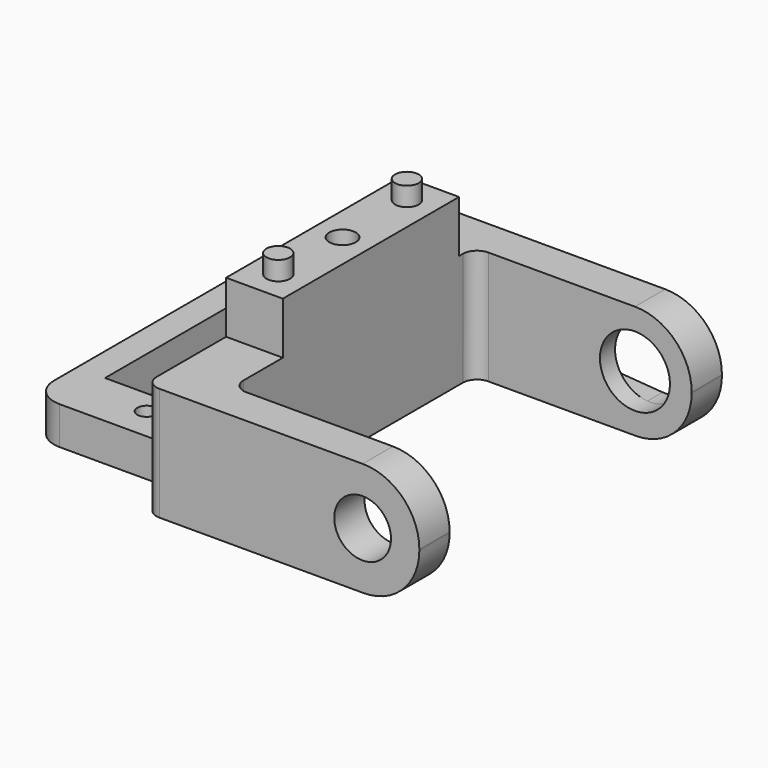
from build123d import *

# Parameters (mm, degrees)
PAD_DEPTH       = 12
SKETCH001_R     = 3
POCKET_DEPTH    = 5
SKETCH002_R     = 3.7
POCKET001_DEPTH = 5
POCKET002_DEPTH = 2
SKETCH004_R     = 1
SKETCH004_W     = 12.8
SKETCH004_H     = 23.3
PAD001_DEPTH    = 4
SKETCH005_W     = 6
SKETCH005_H     = 23.3
PAD002_DEPTH    = 13.5
SKETCH006_R     = 1.25
PAD003_DEPTH    = 2
SKETCH007_R     = 1.4
POCKET003_DEPTH = 11
FILLET_R        = 6
FILLET001_R     = 6
FILLET002_R     = 5.9
FILLET003_R     = 5.9


with BuildPart() as part:
    # Sketch → Pad (new body)
    with BuildSketch(Plane.XY):
        with BuildLine():
            Line((29, 20), (1.5, 20))
            ThreePointArc((1.5, 20), (0.43934, 19.56066), (0, 18.5))
            Line((0, 18.5), (0, -18.5))
            ThreePointArc((0, -18.5), (0.43934, -19.56066), (1.5, -20))
            Line((1.5, -20), (29, -20))
            Line((29, -20), (29, -16))
            Line((29, -16), (7.5, -16))
            ThreePointArc((6, -14.5), (6.43934, -15.56066), (7.5, -16))
            Line((6, -14.5), (6, 14.5))
            ThreePointArc((7.5, 16), (6.43934, 15.56066), (6, 14.5))
            Line((7.5, 16), (29, 16))
            Line((29, 16), (29, 20))
        make_face()
    extrude(amount=PAD_DEPTH)

    # Sketch001 (on Face7 of Pad) → Pocket (cut)
    with BuildSketch(Plane.XZ.offset(20)):
        with Locations((23, 6)):
            Circle(SKETCH001_R)
    extrude(amount=-POCKET_DEPTH, mode=Mode.SUBTRACT)

    # Sketch002 (on Face7 of Pocket) → Pocket001 (cut)
    with BuildSketch(Plane(origin=(0, 20, 0), x_dir=(-1, 0, 0), z_dir=(0, 1, 0))):
        with Locations((-23, 6)):
            Circle(SKETCH002_R)
    extrude(amount=-POCKET001_DEPTH, mode=Mode.SUBTRACT)

    # Sketch003 (on Face8 of Pocket001) → Pocket002 (cut)
    with BuildSketch(Plane(origin=(0, 20, 0), x_dir=(-1, 0, 0), z_dir=(0, 1, 0))):
        with BuildLine():
            ThreePointArc((-22.721895, 9.689534), (-26.7, 6), (-22.721895, 2.310466))
            Line((-22.721895, 2.310466), (-7.508333, 3.457213))
            ThreePointArc((-7.508333, 3.457213), (-5.15, 6), (-7.508333, 8.542787))
            Line((-7.508333, 8.542787), (-22.721895, 9.689534))
        make_face()
    extrude(amount=-POCKET002_DEPTH, mode=Mode.SUBTRACT)

    # Sketch004 (on Face3 of Pocket002) → Pad001 (join)
    with BuildSketch(Plane(origin=(0, 0, 0), x_dir=(1, 0, 0), z_dir=(0, 0, -1))):
        with BuildLine():
            Line((6, 15.3), (-12.8, 15.3))
            ThreePointArc((-12.8, 15.3), (-14.92132, 14.42132), (-15.8, 12.3))
            Line((-15.8, 12.3), (-15.8, -17))
            ThreePointArc((-15.8, -17), (-14.92132, -19.12132), (-12.8, -20))
            Line((-12.8, -20), (6, -20))
            Line((6, -20), (6, 15.3))
        make_face()
        with Locations((-6.4, 11.8)):
            Circle(SKETCH004_R, mode=Mode.SUBTRACT)
        with Locations((-6.4, -16.5)):
            Circle(SKETCH004_R, mode=Mode.SUBTRACT)
        with Locations((-6.4, -2.35)):
            Rectangle(SKETCH004_W, SKETCH004_H, mode=Mode.SUBTRACT)
    extrude(amount=-PAD001_DEPTH)

    # Sketch005 (on Face27 of Pad001) → Pad002 (join)
    with BuildSketch(Plane.XY.offset(4)):
        with Locations((3, 2.35)):
            Rectangle(SKETCH005_W, SKETCH005_H)
    extrude(amount=PAD002_DEPTH)

    # Sketch006 (on Face27 of Pad002) → Pad003 (join)
    with BuildSketch(Plane.XY.offset(17.5)):
        with Locations((3, 10.85)):
            Circle(SKETCH006_R)
        with Locations((3, -6.15)):
            Circle(SKETCH006_R)
    extrude(amount=PAD003_DEPTH)

    # Sketch007 (on Face27 of Pad003) → Pocket003 (cut)
    with BuildSketch(Plane.XY.offset(17.5)):
        with Locations((3, 2.35)):
            Circle(SKETCH007_R)
    extrude(amount=-POCKET003_DEPTH, mode=Mode.SUBTRACT)

    # Fillet
    fillet_edges = [part.edges().sort_by_distance(p)[0] for p in [
        (29, -18, 12),
    ]]
    fillet(fillet_edges, radius=FILLET_R)

    # Fillet001
    fillet001_edges = [part.edges().sort_by_distance(p)[0] for p in [
        (29, 18, 12),
    ]]
    fillet(fillet001_edges, radius=FILLET001_R)

    # Fillet002
    fillet002_edges = [part.edges().sort_by_distance(p)[0] for p in [
        (29, -18, 0),
    ]]
    fillet(fillet002_edges, radius=FILLET002_R)

    # Fillet003
    fillet003_edges = [part.edges().sort_by_distance(p)[0] for p in [
        (29, 18, 0),
    ]]
    fillet(fillet003_edges, radius=FILLET003_R)


solid = part.part
